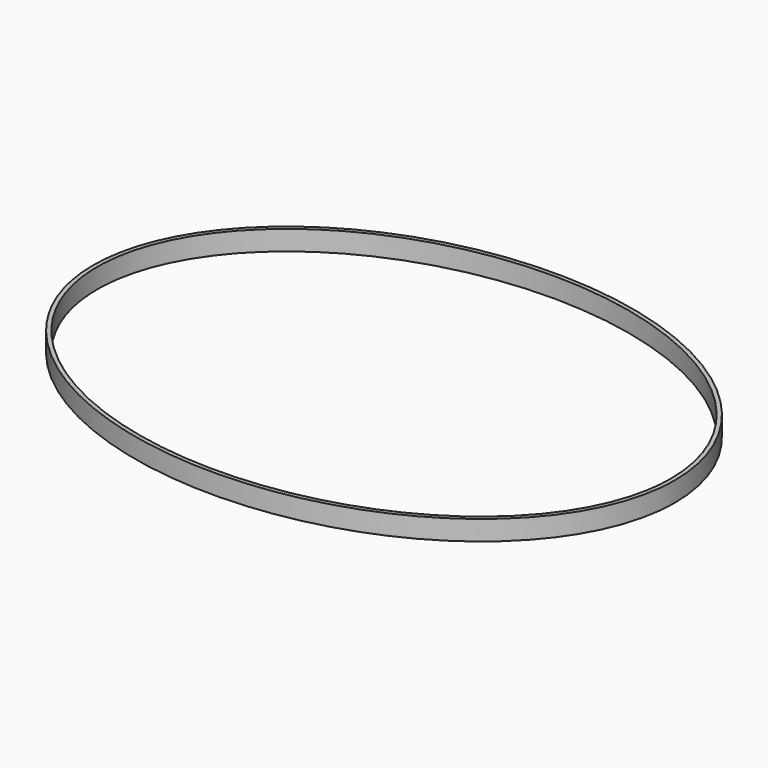
from build123d import *

# Parameters (mm, degrees)
F1_DEPTH = 12


with BuildPart() as f1:
    # F0 (on Top) → F1 (new body)
    with BuildSketch(Plane.XY):
        with BuildLine():
            add(Edge.make_bspline(
                [(176, 0), (176, 225.166605), (-88, 112.583302), (-352, 0), (-88, -112.583302), (176, -225.166605), (176, 0)],
                knots=[0, 0, 0, 2.094395, 2.094395, 4.18879, 4.18879, 6.283185, 6.283185, 6.283185], degree=2, weights=[1, 0.5, 1, 0.5, 1, 0.5, 1]))
        make_face()
        with BuildLine():
            add(Edge.make_bspline(
                [(173.5, 0), (173.5, 220.836478), (-86.75, 110.418239), (-347, 0), (-86.75, -110.418239), (173.5, -220.836478), (173.5, 0)],
                knots=[0, 0, 0, 2.094395, 2.094395, 4.18879, 4.18879, 6.283185, 6.283185, 6.283185], degree=2, weights=[1, 0.5, 1, 0.5, 1, 0.5, 1]))
        make_face(mode=Mode.SUBTRACT)
    extrude(amount=F1_DEPTH)


solid = f1.part
